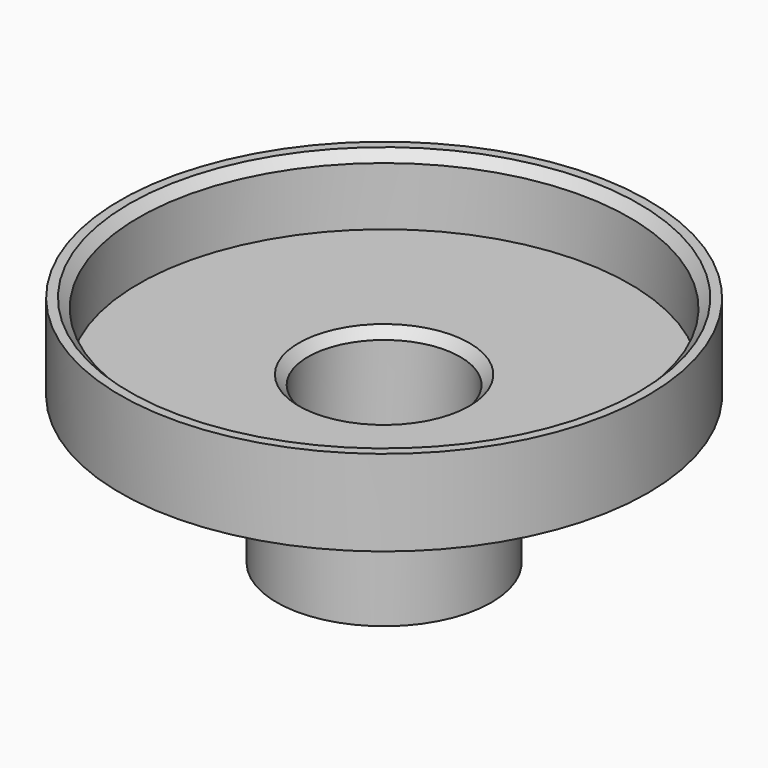
from build123d import *

# Parameters (mm, degrees)
SKETCH_R        = 43
PAD_DEPTH       = 3
SKETCH001_R     = 43
SKETCH001_R_2   = 40
PAD001_DEPTH    = 11
SKETCH002_R     = 12.4
POCKET_DEPTH    = 5
SKETCH003_R     = 17.5
SKETCH003_R_2   = 12.4
PAD002_DEPTH    = 13
SKETCH004_R     = 17.5
SKETCH004_R_2   = 6
PAD003_DEPTH    = 3
SKETCH005_R     = 17.5
SKETCH005_R_2   = 7.75
PAD004_DEPTH    = 8
CHAMFER_SIZE    = 1.5
CHAMFER001_SIZE = 1.5
CHAMFER002_SIZE = 1.5


with BuildPart() as part:
    # Sketch → Pad (new body)
    with BuildSketch(Plane.XY):
        Circle(SKETCH_R)
    extrude(amount=PAD_DEPTH)

    # Sketch001 (on Face3 of Pad) → Pad001 (join)
    with BuildSketch(Plane.XY.offset(3)):
        Circle(SKETCH001_R)
        Circle(SKETCH001_R_2, mode=Mode.SUBTRACT)
    extrude(amount=PAD001_DEPTH)

    # Sketch002 (on Face6 of Pad001) → Pocket (cut)
    with BuildSketch(Plane.XY.offset(3)):
        Circle(SKETCH002_R)
    extrude(amount=-POCKET_DEPTH, mode=Mode.SUBTRACT)

    # Sketch003 (on Face2 of Pocket) → Pad002 (join)
    with BuildSketch(Plane(origin=(0, 0, 0), x_dir=(1, 0, 0), z_dir=(0, 0, -1))):
        Circle(SKETCH003_R)
        Circle(SKETCH003_R_2, mode=Mode.SUBTRACT)
    extrude(amount=PAD002_DEPTH)

    # Sketch004 (on Face6 of Pad002) → Pad003 (join)
    with BuildSketch(Plane(origin=(0, 0, -13), x_dir=(1, 0, 0), z_dir=(0, 0, -1))):
        Circle(SKETCH004_R)
        Circle(SKETCH004_R_2, mode=Mode.SUBTRACT)
    extrude(amount=PAD003_DEPTH)

    # Sketch005 (on Face8 of Pad003) → Pad004 (join)
    with BuildSketch(Plane(origin=(0, 0, -16), x_dir=(1, 0, 0), z_dir=(0, 0, -1))):
        Circle(SKETCH005_R)
        with Locations((0, -0.177664)):
            Circle(SKETCH005_R_2, mode=Mode.SUBTRACT)
    extrude(amount=PAD004_DEPTH)

    # Chamfer
    chamfer_edges = [part.edges().sort_by_distance(p)[0] for p in [
        (-7.75, 0.177664, -24),
    ]]
    chamfer(chamfer_edges, length=CHAMFER_SIZE)

    # Chamfer001
    chamfer001_edges = [part.edges().sort_by_distance(p)[0] for p in [
        (-40, 0, 14),
    ]]
    chamfer(chamfer001_edges, length=CHAMFER001_SIZE)

    # Chamfer002
    chamfer002_edges = [part.edges().sort_by_distance(p)[0] for p in [
        (-12.4, 0, 3),
    ]]
    chamfer(chamfer002_edges, length=CHAMFER002_SIZE)


solid = part.part
